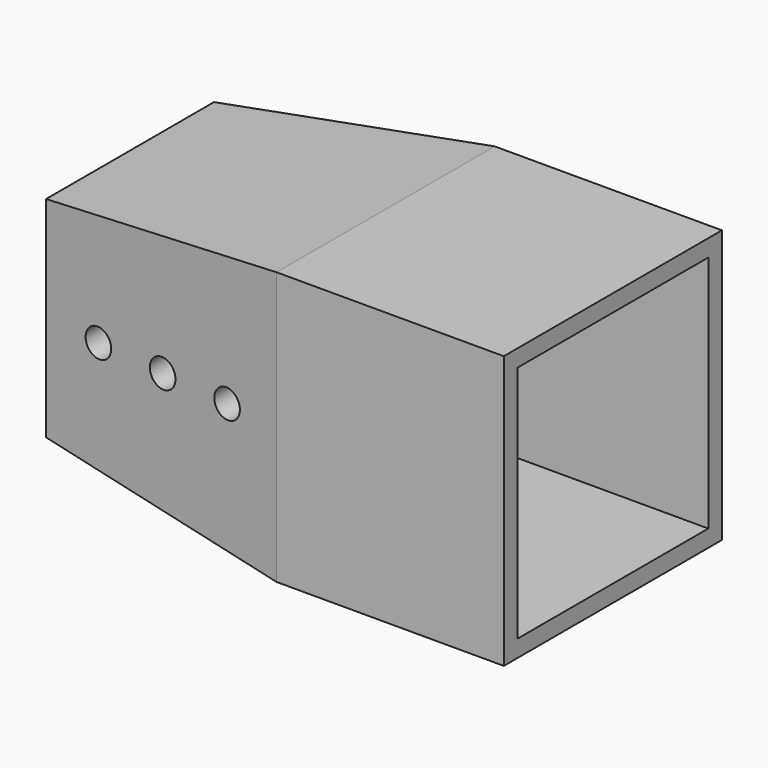
from build123d import *

# Parameters (mm, degrees)
F0_W     = 48
F0_H     = 48
F0_W_2   = 42
F0_H_2   = 42
F0_W_3   = 20
F0_H_3   = 20
F1_DEPTH = 45
F1_TAPER = 7
F2_DEPTH = 60
F3_DEPTH = 40
F4_D     = 3.4
F6_D     = 5
F6_DEPTH = 69
F6_TIP   = 1.5021515476
F7_D     = 5
F7_DEPTH = 69
F7_TIP   = 1.5021515476


with BuildPart() as f1:
    # F0 (on Right) → F1 (new body)
    with BuildSketch(Plane.YZ):
        Rectangle(F0_W, F0_H)
        Rectangle(F0_W_2, F0_H_2, mode=Mode.SUBTRACT)
        Rectangle(F0_W_2, F0_H_2)
        Rectangle(F0_W_3, F0_H_3, mode=Mode.SUBTRACT)
        Rectangle(F0_W_3, F0_H_3)
    extrude(amount=-F1_DEPTH, taper=F1_TAPER)

    # F0 (on Right) → F2 (cut)
    with BuildSketch(Plane.YZ):
        Rectangle(F0_W_3, F0_H_3)
    extrude(amount=-F2_DEPTH, mode=Mode.SUBTRACT)

    # F0 (on Right) → F3 (join)
    with BuildSketch(Plane.YZ):
        Rectangle(F0_W, F0_H)
        Rectangle(F0_W_2, F0_H_2, mode=Mode.SUBTRACT)
    extrude(amount=F3_DEPTH)

    # F4 (through all)
    with Locations(Plane.YZ):
        with Locations((15.5, 15.5), (-15.5, 15.5), (-15.5, -15.5), (15.5, -15.5)):
            Hole(F4_D / 2)

    # F6 (one way)
    with BuildSketch(Plane(origin=(0, -10, 0), x_dir=(-1, 0, 0), z_dir=(0, 1, 0))):
        with Locations((34.7797162831, 0), (22.2414657474, 0), (9.6642384306, 0)):
            Circle(F6_D / 2)
    extrude(amount=-F6_DEPTH, mode=Mode.SUBTRACT)
    with Locations(Plane(origin=(0, -10, 0), x_dir=(-1, 0, 0), z_dir=(0, 1, 0))):
        with Locations((34.7797162831, 0), (22.2414657474, 0), (9.6642384306, 0)):
            with Locations((0, 0, -(F6_DEPTH + F6_TIP / 2))):  # 118° drill point
                Cone(0, F6_D / 2, F6_TIP, mode=Mode.SUBTRACT)

    # F7
    with Locations(Plane(origin=(0, -10, 0), x_dir=(-1, 0, 0), z_dir=(0, -1, 0))):
        with Locations((34.7797162831, 0), (22.2414657474, 0), (9.6642384306, 0)):
            Hole(F7_D / 2, depth=F7_DEPTH)
            with Locations((0, 0, -(F7_DEPTH + F7_TIP / 2))):  # 118° drill point
                Cone(0, F7_D / 2, F7_TIP, mode=Mode.SUBTRACT)


solid = f1.part
